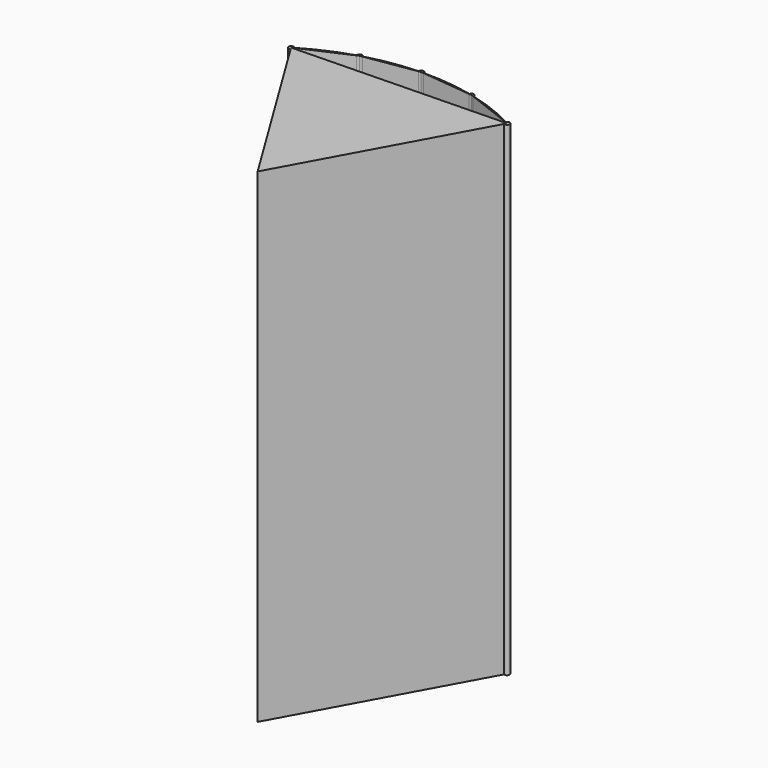
from build123d import *

# Parameters (mm, degrees)
F1_DEPTH = 2438.4
F2_W     = 101.6
F2_H     = 304.8
F3_DEPTH = 76.2


with BuildPart() as f1:
    # F0 (on Top) → F1 (new body)
    with BuildSketch(Plane.XY):
        with BuildLine():
            ThreePointArc((-543.283352972, 905.251709329), (-544.8995562215, 899.0517537166), (-549.3368096011, 894.4298120268))
            Line((-549.3368096011, 894.4298120268), (0, 0))
            Line((0, 0), (503.7922000659, 920.852343309))
            ThreePointArc((503.7922000659, 920.852343309), (499.0449648841, 925.3814198254), (497.1916848263, 931.6753954363))
            Line((497.1916848263, 931.6753954363), (-543.2873483183, 905.5702463525))
            ThreePointArc((-543.2873483183, 905.5702463525), (-543.2843518478, 905.4109903685), (-543.283352972, 905.251709329))
        make_face()
        with BuildLine():
            Line((509.8876894799, 931.9939324598), (497.1916848263, 931.6753954363))
            ThreePointArc((497.1916848263, 931.6753954363), (499.0449648841, 925.3814198254), (503.7922000659, 920.852343309))
            Line((503.7922000659, 920.852343309), (509.8876894799, 931.9939324598))
        make_face()
        with BuildLine():
            Line((-543.2873483183, 905.5702463525), (-555.983352972, 905.251709329))
            Line((-555.983352972, 905.251709329), (-549.3368096011, 894.4298120268))
            ThreePointArc((-549.3368096011, 894.4298120268), (-544.8995562215, 899.0517537166), (-543.283352972, 905.251709329))
            ThreePointArc((-543.283352972, 905.251709329), (-543.2843518478, 905.4109903685), (-543.2873483183, 905.5702463525))
        make_face()
        with BuildLine():
            ThreePointArc((-543.283352972, 905.251709329), (-544.8995562215, 899.0517537166), (-549.3368096011, 894.4298120268))
            Line((-549.3368096011, 894.4298120268), (0, 0))
            Line((0, 0), (503.7922000659, 920.852343309))
            ThreePointArc((503.7922000659, 920.852343309), (499.0449648841, 925.3814198254), (497.1916848263, 931.6753954363))
            Line((497.1916848263, 931.6753954363), (-543.2873483183, 905.5702463525))
            ThreePointArc((-543.2873483183, 905.5702463525), (-543.2843518478, 905.4109903685), (-543.283352972, 905.251709329))
        make_face()
        with BuildLine():
            Line((-549.3368096011, 894.4298120268), (-555.983352972, 905.251709329))
            ThreePointArc((-555.983352972, 905.251709329), (-550.562472159, 908.5588094753), (-545.1219207009, 911.8334483865))
            ThreePointArc((-545.1219207009, 911.8334483865), (-568.3265268914, 908.2410332652), (-549.3368096011, 894.4298120268))
        make_face()
        with BuildLine():
            Line((-543.2873483183, 905.5702463525), (-555.983352972, 905.251709329))
            Line((-555.983352972, 905.251709329), (-549.3368096011, 894.4298120268))
            ThreePointArc((-549.3368096011, 894.4298120268), (-544.8995562215, 899.0517537166), (-543.283352972, 905.251709329))
            ThreePointArc((-543.283352972, 905.251709329), (-543.2843518478, 905.4109903685), (-543.2873483183, 905.5702463525))
        make_face()
        with BuildLine():
            ThreePointArc((-545.1219207009, 911.8334483865), (-550.562472159, 908.5588094753), (-555.983352972, 905.251709329))
            Line((-555.983352972, 905.251709329), (-544.3837813493, 910.4227767401))
            ThreePointArc((-544.3837813493, 910.4227767401), (-544.7307233858, 911.1396909354), (-545.1219207009, 911.8334483865))
        make_face()
        with BuildLine():
            ThreePointArc((-313.8311755896, 1014.942431497), (-432.5597889382, 970.304166238), (-545.1219207009, 911.8334483865))
            ThreePointArc((-545.1219207009, 911.8334483865), (-544.7307233858, 911.1396909354), (-544.3837813493, 910.4227767401))
            Line((-544.3837813493, 910.4227767401), (-313.2753358647, 1013.4504910167))
            ThreePointArc((-313.2753358647, 1013.4504910167), (-313.5766581403, 1014.1877424165), (-313.8311755896, 1014.942431497))
        make_face()
        with BuildLine():
            ThreePointArc((-543.283352972, 905.251709329), (-544.8995562215, 899.0517537166), (-549.3368096011, 894.4298120268))
            Line((-549.3368096011, 894.4298120268), (0, 0))
            Line((0, 0), (503.7922000659, 920.852343309))
            ThreePointArc((503.7922000659, 920.852343309), (499.0449648841, 925.3814198254), (497.1916848263, 931.6753954363))
            Line((497.1916848263, 931.6753954363), (-543.2873483183, 905.5702463525))
            ThreePointArc((-543.2873483183, 905.5702463525), (-543.2843518478, 905.4109903685), (-543.283352972, 905.251709329))
        make_face()
        with BuildLine():
            ThreePointArc((-289.4772398661, 1022.1551123115), (-305.2821690746, 1030.7987438245), (-313.8311755896, 1014.942431497))
            ThreePointArc((-313.8311755896, 1014.942431497), (-307.7589677637, 1016.8001592181), (-301.6757642421, 1018.6215584278))
            ThreePointArc((-301.6757642421, 1018.6215584278), (-295.581782367, 1020.4065640507), (-289.4772398661, 1022.1551123115))
        make_face()
        with BuildLine():
            ThreePointArc((-301.6757642421, 1018.6215584278), (-307.7589677637, 1016.8001592181), (-313.8311755896, 1014.942431497))
            ThreePointArc((-313.8311755896, 1014.942431497), (-313.5766581403, 1014.1877424165), (-313.2753358647, 1013.4504910167))
            Line((-313.2753358647, 1013.4504910167), (-301.6757642421, 1018.6215584278))
        make_face()
        with BuildLine():
            Line((509.8876894799, 931.9939324598), (497.1916848263, 931.6753954363))
            ThreePointArc((497.1916848263, 931.6753954363), (499.0449648841, 925.3814198254), (503.7922000659, 920.852343309))
            Line((503.7922000659, 920.852343309), (509.8876894799, 931.9939324598))
        make_face()
        with BuildLine():
            ThreePointArc((-289.4772398661, 1022.1551123115), (-295.581782367, 1020.4065640507), (-301.6757642421, 1018.6215584278))
            Line((-301.6757642421, 1018.6215584278), (-289.130987859, 1020.6011001674))
            ThreePointArc((-289.130987859, 1020.6011001674), (-289.2797378001, 1021.3835375101), (-289.4772398661, 1022.1551123115))
        make_face()
        with BuildLine():
            ThreePointArc((-39.3394958808, 1061.626370287), (-165.5886665154, 1049.370544444), (-289.4772398661, 1022.1551123115))
            ThreePointArc((-289.4772398661, 1022.1551123115), (-289.2797378001, 1021.3835375101), (-289.130987859, 1020.6011001674))
            Line((-289.130987859, 1020.6011001674), (-39.1903984004, 1060.0412475354))
            ThreePointArc((-39.1903984004, 1060.0412475354), (-39.2898112005, 1060.8314701847), (-39.3394958808, 1061.626370287))
        make_face()
        with BuildLine():
            Line((509.8876894799, 931.9939324598), (503.7922000659, 920.852343309))
            ThreePointArc((503.7922000659, 920.852343309), (516.3636945927, 921.0691277577), (522.5876894799, 931.9939324598))
            ThreePointArc((522.5876894799, 931.9939324598), (512.9966786696, 944.3075097718), (498.7098648786, 938.0227165148))
            ThreePointArc((498.7098648786, 938.0227165148), (504.3077862018, 935.025027901), (509.8876894799, 931.9939324598))
        make_face()
        with BuildLine():
            Line((498.0433959366, 936.5768038806), (509.8876894799, 931.9939324598))
            ThreePointArc((509.8876894799, 931.9939324598), (504.3077862018, 935.025027901), (498.7098648786, 938.0227165148))
            ThreePointArc((498.7098648786, 938.0227165148), (498.3539499821, 937.3102143557), (498.0433959366, 936.5768038806))
        make_face()
        with BuildLine():
            Line((262.0591408539, 1027.885373229), (498.0433959366, 936.5768038806))
            ThreePointArc((498.0433959366, 936.5768038806), (498.3539499821, 937.3102143557), (498.7098648786, 938.0227165148))
            ThreePointArc((498.7098648786, 938.0227165148), (383.3571943519, 990.7751548983), (262.5394641033, 1029.4033105704))
            ThreePointArc((262.5394641033, 1029.4033105704), (262.3231126757, 1028.6368076024), (262.0591408539, 1027.885373229))
        make_face()
        with BuildLine():
            ThreePointArc((-13.9479401798, 1062.2634329533), (-26.9641590408, 1074.7167939286), (-39.3394958808, 1061.626370287))
            ThreePointArc((-39.3394958808, 1061.626370287), (-32.9931483431, 1061.8425486801), (-26.6456220173, 1062.020789275))
            ThreePointArc((-26.6456220173, 1062.020789275), (-20.2971436895, 1062.1610857036), (-13.9479401798, 1062.2634329533))
        make_face()
        with BuildLine():
            ThreePointArc((-26.6456220173, 1062.020789275), (-32.9931483431, 1061.8425486801), (-39.3394958808, 1061.626370287))
            ThreePointArc((-39.3394958808, 1061.626370287), (-39.2898112005, 1060.8314701847), (-39.1903984004, 1060.0412475354))
            Line((-39.1903984004, 1060.0412475354), (-26.6456220173, 1062.020789275))
        make_face()
        with BuildLine():
            Line((250.2148473106, 1032.4682446499), (262.0591408539, 1027.885373229))
            ThreePointArc((262.0591408539, 1027.885373229), (262.3231126757, 1028.6368076024), (262.5394641033, 1029.4033105704))
            ThreePointArc((262.5394641033, 1029.4033105704), (256.381735745, 1030.9541947155), (250.2148473106, 1032.4682446499))
        make_face()
        with BuildLine():
            ThreePointArc((-13.9479401798, 1062.2634329533), (-20.2971436895, 1062.1610857036), (-26.6456220173, 1062.020789275))
            Line((-26.6456220173, 1062.020789275), (-14.0173600787, 1060.6728276993))
            ThreePointArc((-14.0173600787, 1060.6728276993), (-13.9635692138, 1061.3458546932), (-13.9456220173, 1062.020789275))
            ThreePointArc((-13.9456220173, 1062.020789275), (-13.9462015711, 1062.1421166508), (-13.9479401798, 1062.2634329533))
        make_face()
        with BuildLine():
            ThreePointArc((237.8544718619, 1035.3856268272), (112.7569858058, 1056.3541111658), (-13.9479401798, 1062.2634329533))
            ThreePointArc((-13.9479401798, 1062.2634329533), (-13.9462015711, 1062.1421166508), (-13.9456220173, 1062.020789275))
            ThreePointArc((-13.9456220173, 1062.020789275), (-13.9635692138, 1061.3458546932), (-14.0173600787, 1060.6728276993))
            Line((-14.0173600787, 1060.6728276993), (237.5865853719, 1033.8162062255))
            ThreePointArc((237.5865853719, 1033.8162062255), (237.6959108592, 1034.6051185642), (237.8544718619, 1035.3856268272))
        make_face()
        with BuildLine():
            ThreePointArc((250.2148473106, 1032.4682446499), (256.381735745, 1030.9541947155), (262.5394641033, 1029.4033105704))
            ThreePointArc((262.5394641033, 1029.4033105704), (262.820652189, 1030.9243264636), (262.9148473106, 1032.4682446499))
            ThreePointArc((262.9148473106, 1032.4682446499), (251.6833894111, 1045.0830527776), (237.8544718619, 1035.3856268272))
            ThreePointArc((237.8544718619, 1035.3856268272), (244.0390191323, 1033.9454062792), (250.2148473106, 1032.4682446499))
        make_face()
        with BuildLine():
            Line((237.5865853719, 1033.8162062255), (250.2148473106, 1032.4682446499))
            ThreePointArc((250.2148473106, 1032.4682446499), (244.0390191323, 1033.9454062792), (237.8544718619, 1035.3856268272))
            ThreePointArc((237.8544718619, 1035.3856268272), (237.6959108592, 1034.6051185642), (237.5865853719, 1033.8162062255))
        make_face()
    extrude(amount=F1_DEPTH)


with BuildPart() as f3:
    # F2 (on Top) → F3 (new body)
    with BuildSketch(Plane.XY):
        with Locations((-245.8221390843, 1340.7095196815)):
            Rectangle(F2_W, F2_H)
    extrude(amount=F3_DEPTH)


solid = Compound([f1.part, f3.part])
